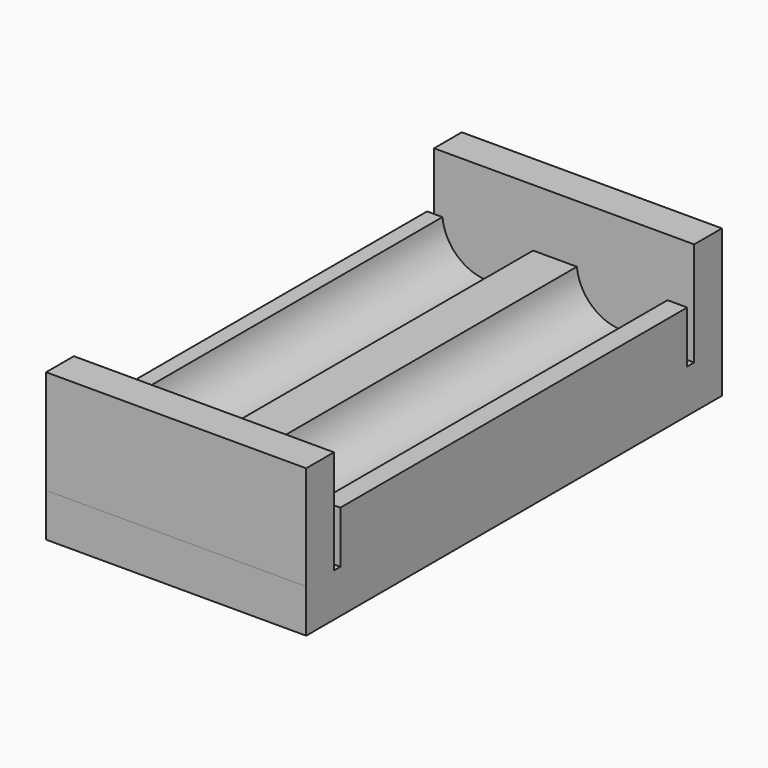
from build123d import *

# Parameters (mm, degrees)
SKETCH001_W     = 30
SKETCH001_H     = 59.929449
PAD_DEPTH       = 5
SKETCH002_W     = 16.5
SKETCH002_H     = 25
POCKET_DEPTH    = 4
SKETCH003_W     = 2.5
SKETCH003_H     = 30
POCKET001_DEPTH = 2
SKETCH004_R     = 1
POCKET002_DEPTH = 5
SKETCH005_W     = 30
SKETCH005_H     = 4
PAD001_DEPTH    = 12
PAD002_DEPTH    = 50


with BuildPart() as part:
    # Sketch001 → Pad (new body)
    with BuildSketch(Plane.XY):
        with Locations((12.75, -27.714724)):
            Rectangle(SKETCH001_W, SKETCH001_H)
    extrude(amount=PAD_DEPTH)

    # Sketch002 (on Face5 of Pad) → Pocket (cut)
    with BuildSketch(Plane(origin=(0, 0, 0), x_dir=(1, 0, 0), z_dir=(0, 0, -1))):
        with Locations((12.25, 22)):
            Rectangle(SKETCH002_W, SKETCH002_H)
    extrude(amount=-POCKET_DEPTH, mode=Mode.SUBTRACT)

    # Sketch003 (on Face4 of Pocket) → Pocket001 (cut)
    with BuildSketch(Plane(origin=(0, 0, 0), x_dir=(1, 0, 0), z_dir=(0, 0, -1))):
        with Locations((1.25, 19.5)):
            Rectangle(SKETCH003_W, SKETCH003_H)
        with Locations((24.25, 19.5)):
            Rectangle(SKETCH003_W, SKETCH003_H)
    extrude(amount=-POCKET001_DEPTH, mode=Mode.SUBTRACT)

    # Sketch004 (on Face4 of Pocket001) → Pocket002 (cut)
    with BuildSketch(Plane(origin=(0, 0, 0), x_dir=(1, 0, 0), z_dir=(0, 0, -1))):
        with Locations((4.95, 42.2)):
            Circle(SKETCH004_R)
        with Locations((20.55, 42.2)):
            Circle(SKETCH004_R)
    extrude(amount=-POCKET002_DEPTH, mode=Mode.SUBTRACT)

    # Sketch005 (on Face5 of Pocket002) → Pad001 (join)
    with BuildSketch(Plane.XY.offset(5)):
        with Locations((12.75, -55.679449)):
            Rectangle(SKETCH005_W, SKETCH005_H)
        with Locations((12.75, 0.25)):
            Rectangle(SKETCH005_W, SKETCH005_H)
    extrude(amount=PAD001_DEPTH)

    # Sketch006 (on DatumPlane) → Pad002 (join)
    with BuildSketch(Plane(origin=(-1, -2.75, -16), x_dir=(1, 0, 0), z_dir=(0, -1, 0))):
        with BuildLine():
            ThreePointArc((0.523864, 27), (5.75, 22.25), (10.976136, 27))
            Line((10.976136, 27), (16.023864, 27))
            ThreePointArc((16.023864, 27), (21.25, 22.25), (26.476136, 27))
            Line((26.476136, 27), (28.75, 27))
            Line((28.75, 27), (28.75, 21))
            Line((-1.25, 21), (28.75, 21))
            Line((-1.25, 27), (-1.25, 21))
            Line((-1.25, 27), (0.523864, 27))
        make_face()
    extrude(amount=PAD002_DEPTH)


solid = part.part
